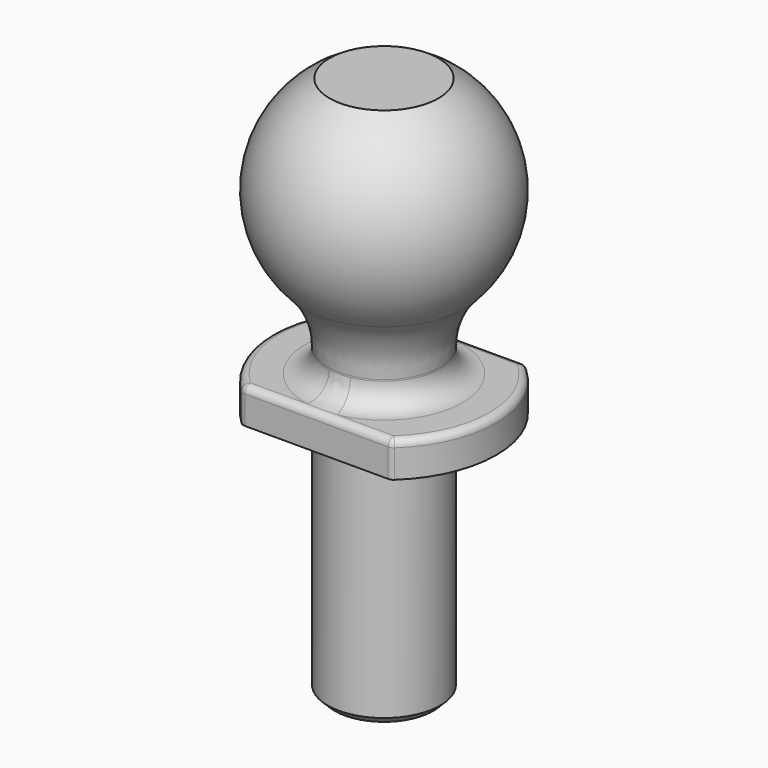
from build123d import *

# Parameters (mm, degrees)
F2_W          = 30.5360297733
F2_H          = 20.1705897587
F3_DEPTH      = 25.401
F3_DEPTH_BACK = 25.4
F4_R          = 1.5875
F5_SIZE       = 1.6002
F6_R          = 19.05
F7_R          = 5.08


with BuildPart() as f1:
    # F0 (on Front) → F1 (revolve)
    with BuildSketch(Plane.XZ):
        with BuildLine():
            Line((-25.4, 0), (-12.7, 0))
            Line((-12.7, 0), (-12.7, -55.5625))
            Line((-12.7, -55.5625), (0, -55.5625))
            Line((0, -55.5625), (0, 0))
            Line((0, 0), (0, 7.9375))
            Line((0, 7.9375), (0, 19.05))
            Line((0, 19.05), (0, 66.675))
            Line((0, 66.675), (-12.2967221242, 66.675))
            ThreePointArc((-12.2967221242, 66.675), (-25.3989438933, 44.6816227592), (-12.7, 22.4529547439))
            Line((-12.7, 22.4529547439), (-12.7, 7.9375))
            Line((-12.7, 7.9375), (-25.4, 7.9375))
            Line((-25.4, 7.9375), (-25.4, 0))
        make_face()
    revolve(axis=Axis((0, 0, -27.78125), (0, 0, -1)))

    # F2 (on Right) → F3 (cut, two sides)
    with BuildSketch(Plane.YZ) as f3_sk:
        with Locations((-34.3180148866, 4.7039177944)):
            Rectangle(F2_W, F2_H)
        with Locations((34.3180148866, 4.7039177944)):
            Rectangle(F2_W, F2_H)
    extrude(amount=-F3_DEPTH, mode=Mode.SUBTRACT)
    extrude(f3_sk.sketch, amount=F3_DEPTH_BACK, mode=Mode.SUBTRACT)

    # F4
    f4_edges = [f1.edges().sort_by_distance(p)[0] for p in [
        (-25.4, 0, 7.9375),
        (25.4, 0, 7.9375),
        (0, -19.05, 7.9375),
        (0, 19.05, 7.9375),
        (16.800521, 19.05, 3.96875),
        (-16.800521, 19.05, 3.96875),
        (16.800521, -19.05, 3.96875),
        (-16.800521, -19.05, 3.96875),
    ]]
    fillet(f4_edges, radius=F4_R)

    # F5
    f5_edges = [f1.edges().sort_by_distance(p)[0] for p in [
        (12.7, 0, -55.5625),
    ]]
    chamfer(f5_edges, length=F5_SIZE)

    # F6
    f6_edges = [f1.edges().sort_by_distance(p)[0] for p in [
        (12.7, 0, 22.452955),
    ]]
    fillet(f6_edges, radius=F6_R)

    # F7
    f7_edges = [f1.edges().sort_by_distance(p)[0] for p in [
        (12.7, 0, 7.9375),
    ]]
    fillet(f7_edges, radius=F7_R)


solid = f1.part
